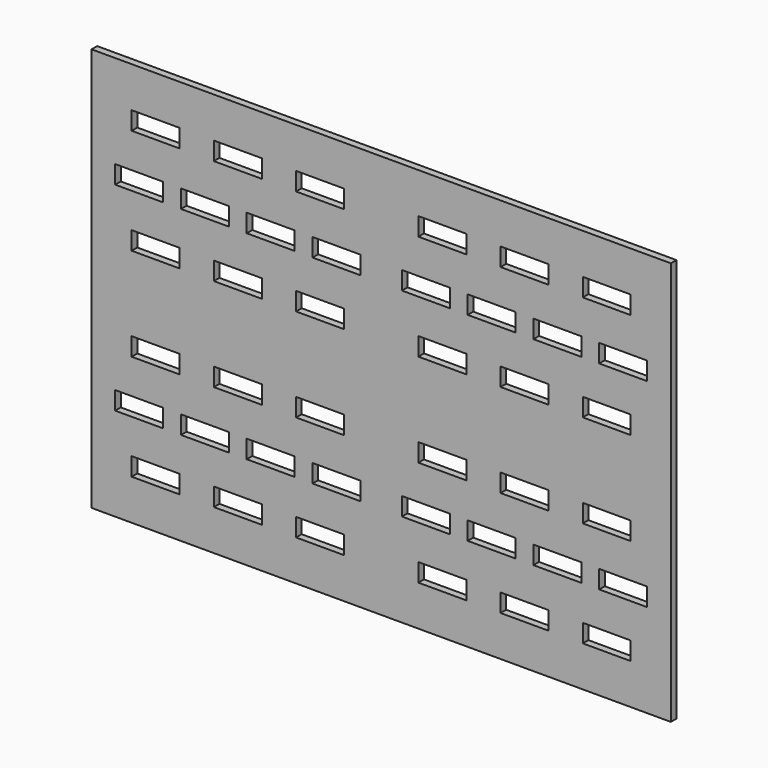
from build123d import *

# Parameters (mm, degrees)
F0_W     = 41
F0_H     = 15.5
F1_DEPTH = 3


with BuildPart() as f1:
    # F0 (on Front) → F1 (new body, symmetric)
    with BuildSketch(Plane.XZ):
        Polygon((-227.5, -172.5), (227.5, -172.5), (247.5, -172.5), (247.5, -152.5), (247.5, 152.5), (247.5, 172.5), (226.916667, 172.5), (-228.083333, 172.5), (-247.5, 172.5), (-247.5, 152.5), (-247.5, -152.5), (-247.5, -172.5), align=None)
        with Locations((-192.75, -130.125)):
            Rectangle(F0_W, F0_H, mode=Mode.SUBTRACT)
        with Locations((-122.5, -130.125)):
            Rectangle(F0_W, F0_H, mode=Mode.SUBTRACT)
        with Locations((-52.25, -130.125)):
            Rectangle(F0_W, F0_H, mode=Mode.SUBTRACT)
        with Locations((-206.8, -85)):
            Rectangle(F0_W, F0_H, mode=Mode.SUBTRACT)
        with Locations((-150.6, -85)):
            Rectangle(F0_W, F0_H, mode=Mode.SUBTRACT)
        with Locations((-192.75, -39.875)):
            Rectangle(F0_W, F0_H, mode=Mode.SUBTRACT)
        with Locations((-94.4, -85)):
            Rectangle(F0_W, F0_H, mode=Mode.SUBTRACT)
        with Locations((-38.2, -85)):
            Rectangle(F0_W, F0_H, mode=Mode.SUBTRACT)
        with Locations((-122.5, -39.875)):
            Rectangle(F0_W, F0_H, mode=Mode.SUBTRACT)
        with Locations((-52.25, -39.875)):
            Rectangle(F0_W, F0_H, mode=Mode.SUBTRACT)
        with Locations((52.25, -130.125)):
            Rectangle(F0_W, F0_H, mode=Mode.SUBTRACT)
        with Locations((122.5, -130.125)):
            Rectangle(F0_W, F0_H, mode=Mode.SUBTRACT)
        with Locations((192.75, -130.125)):
            Rectangle(F0_W, F0_H, mode=Mode.SUBTRACT)
        with Locations((38.2, -85)):
            Rectangle(F0_W, F0_H, mode=Mode.SUBTRACT)
        with Locations((94.4, -85)):
            Rectangle(F0_W, F0_H, mode=Mode.SUBTRACT)
        with Locations((52.25, -39.875)):
            Rectangle(F0_W, F0_H, mode=Mode.SUBTRACT)
        with Locations((122.5, -39.875)):
            Rectangle(F0_W, F0_H, mode=Mode.SUBTRACT)
        with Locations((150.6, -85)):
            Rectangle(F0_W, F0_H, mode=Mode.SUBTRACT)
        with Locations((206.8, -85)):
            Rectangle(F0_W, F0_H, mode=Mode.SUBTRACT)
        with Locations((192.75, -39.875)):
            Rectangle(F0_W, F0_H, mode=Mode.SUBTRACT)
        with Locations((-192.75, 39.875)):
            Rectangle(F0_W, F0_H, mode=Mode.SUBTRACT)
        with Locations((-206.8, 85)):
            Rectangle(F0_W, F0_H, mode=Mode.SUBTRACT)
        with Locations((-150.6, 85)):
            Rectangle(F0_W, F0_H, mode=Mode.SUBTRACT)
        with Locations((-122.5, 39.875)):
            Rectangle(F0_W, F0_H, mode=Mode.SUBTRACT)
        with Locations((-52.25, 39.875)):
            Rectangle(F0_W, F0_H, mode=Mode.SUBTRACT)
        with Locations((-94.4, 85)):
            Rectangle(F0_W, F0_H, mode=Mode.SUBTRACT)
        with Locations((-38.2, 85)):
            Rectangle(F0_W, F0_H, mode=Mode.SUBTRACT)
        with Locations((-192.75, 130.125)):
            Rectangle(F0_W, F0_H, mode=Mode.SUBTRACT)
        with Locations((-122.5, 130.125)):
            Rectangle(F0_W, F0_H, mode=Mode.SUBTRACT)
        with Locations((-52.25, 130.125)):
            Rectangle(F0_W, F0_H, mode=Mode.SUBTRACT)
        with Locations((52.25, 39.875)):
            Rectangle(F0_W, F0_H, mode=Mode.SUBTRACT)
        with Locations((122.5, 39.875)):
            Rectangle(F0_W, F0_H, mode=Mode.SUBTRACT)
        with Locations((38.2, 85)):
            Rectangle(F0_W, F0_H, mode=Mode.SUBTRACT)
        with Locations((94.4, 85)):
            Rectangle(F0_W, F0_H, mode=Mode.SUBTRACT)
        with Locations((192.75, 39.875)):
            Rectangle(F0_W, F0_H, mode=Mode.SUBTRACT)
        with Locations((150.6, 85)):
            Rectangle(F0_W, F0_H, mode=Mode.SUBTRACT)
        with Locations((206.8, 85)):
            Rectangle(F0_W, F0_H, mode=Mode.SUBTRACT)
        with Locations((52.25, 130.125)):
            Rectangle(F0_W, F0_H, mode=Mode.SUBTRACT)
        with Locations((122.5, 130.125)):
            Rectangle(F0_W, F0_H, mode=Mode.SUBTRACT)
        with Locations((192.75, 130.125)):
            Rectangle(F0_W, F0_H, mode=Mode.SUBTRACT)
    extrude(amount=F1_DEPTH, both=True)


solid = f1.part
